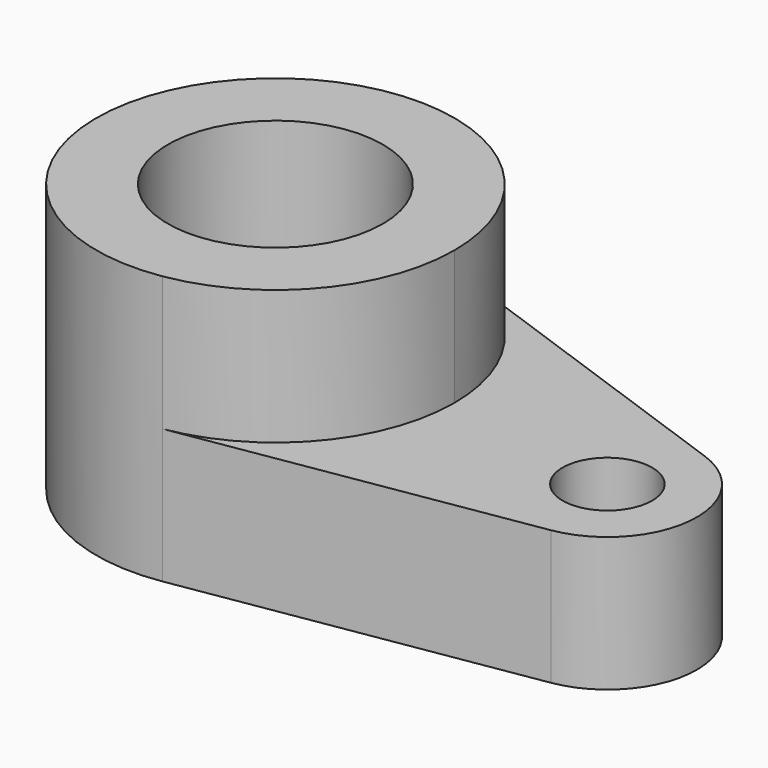
from build123d import *

# Parameters (mm, degrees)
F0_R     = 5
F1_DEPTH = 15
F0_R_2   = 12
F2_DEPTH = 30


with BuildPart() as f1:
    # F0 (on Top) → F1 (new body)
    with BuildSketch(Plane.XY):
        with BuildLine():
            ThreePointArc((-29.821424, 51.048722), (-20.195914, 43.735288), (-16.542495, 32.211865))
            ThreePointArc((-16.542495, 32.211865), (-21.312216, 19.248895), (-33.346355, 12.468899))
            Line((-33.346355, 12.468899), (5.055575, 18.685693))
            ThreePointArc((5.055575, 18.685693), (13.416024, 27.647294), (6.81804, 37.975605))
            Line((6.81804, 37.975605), (-29.821424, 51.048722))
        make_face()
        with Locations((3.457505, 28.557176)):
            Circle(F0_R, mode=Mode.SUBTRACT)
    extrude(amount=F1_DEPTH)

    # F0 (on Top) → F2 (join)
    with BuildSketch(Plane.XY):
        with BuildLine():
            ThreePointArc((-33.346355, 12.468899), (-21.312216, 19.248895), (-16.542495, 32.211865))
            ThreePointArc((-16.542495, 32.211865), (-20.195914, 43.735288), (-29.821424, 51.048722))
            ThreePointArc((-29.821424, 51.048722), (-56.459535, 34.031629), (-33.346355, 12.468899))
        make_face()
        with Locations((-36.542495, 32.211865)):
            Circle(F0_R_2, mode=Mode.SUBTRACT)
    extrude(amount=F2_DEPTH)


solid = f1.part
